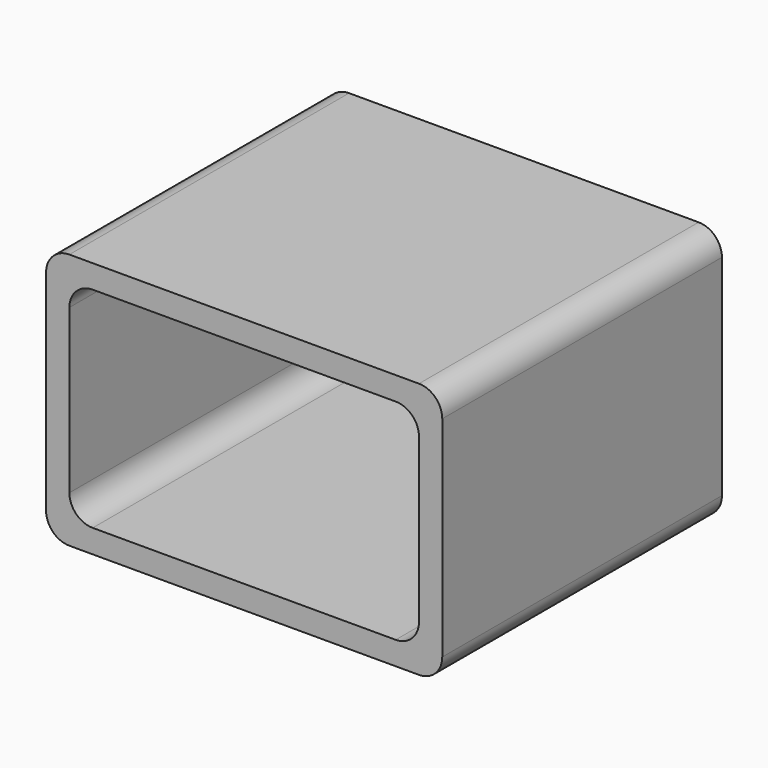
from build123d import *

# Parameters (mm, degrees)
F1_DEPTH      = 9.525
F1_DEPTH_BACK = 9.525


with BuildPart() as f1:
    # F0 (on Front) → F1 (new body, two sides)
    with BuildSketch(Plane.XZ) as f1_sk:
        with BuildLine():
            Line((-9.525, -6.985), (9.525, -6.985))
            ThreePointArc((9.525, -6.985), (10.423026, -6.613026), (10.795, -5.715))
            Line((10.795, -5.715), (10.795, 5.715))
            ThreePointArc((10.795, 5.715), (10.423026, 6.613026), (9.525, 6.985))
            Line((9.525, 6.985), (-9.525, 6.985))
            ThreePointArc((-9.525, 6.985), (-10.423026, 6.613026), (-10.795, 5.715))
            Line((-10.795, 5.715), (-10.795, -5.715))
            ThreePointArc((-10.795, -5.715), (-10.423026, -6.613026), (-9.525, -6.985))
        make_face()
        with BuildLine():
            ThreePointArc((9.525, -4.445), (9.153026, -5.343026), (8.255, -5.715))
            Line((8.255, -5.715), (-8.255, -5.715))
            ThreePointArc((-8.255, -5.715), (-9.153026, -5.343026), (-9.525, -4.445))
            Line((-9.525, -4.445), (-9.525, 4.445))
            ThreePointArc((-9.525, 4.445), (-9.153026, 5.343026), (-8.255, 5.715))
            Line((-8.255, 5.715), (8.255, 5.715))
            ThreePointArc((8.255, 5.715), (9.153026, 5.343026), (9.525, 4.445))
            Line((9.525, 4.445), (9.525, -4.445))
        make_face(mode=Mode.SUBTRACT)
    extrude(amount=F1_DEPTH)
    extrude(f1_sk.sketch, amount=-F1_DEPTH_BACK)


solid = f1.part
